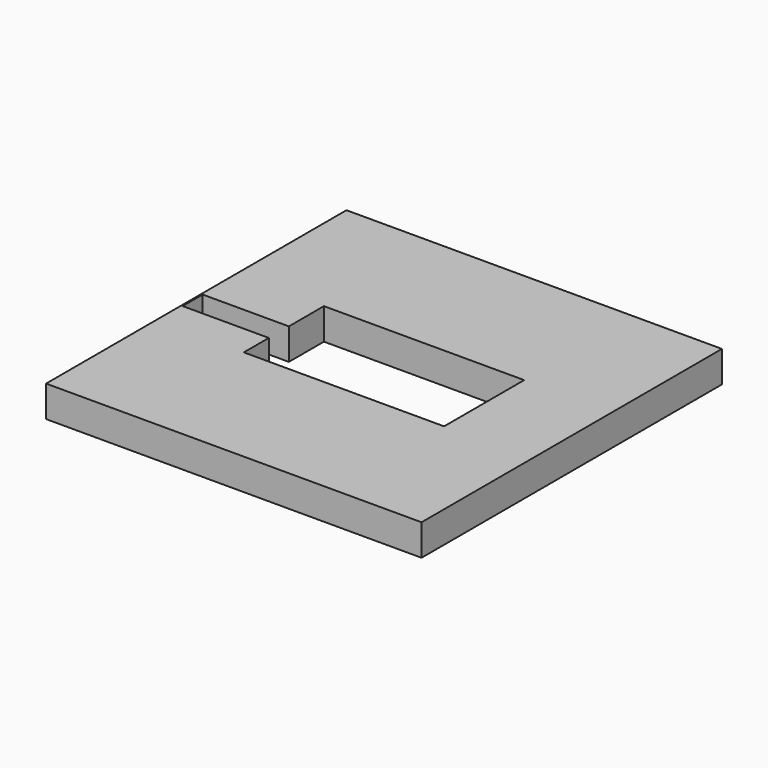
from build123d import *

# Parameters (mm, degrees)
F1_W     = 76.2
F1_H     = 76.2
F1_W_2   = 40.64
F1_H_2   = 20.32
F2_DEPTH = 6.35
F3_W     = 17.763365
F3_H     = 5.08
F4_DEPTH = 25.4


with BuildPart() as f2:
    # F1 (on face) → F2 (new body)
    with BuildSketch(Plane.XY):
        with Locations((-38.1, -38.1)):
            Rectangle(F1_W, F1_H)
        with Locations((-38.1, -38.1)):
            Rectangle(F1_W_2, F1_H_2, mode=Mode.SUBTRACT)
    extrude(amount=F2_DEPTH)

    # F3 (on face) → F4 (cut)
    with BuildSketch(Plane.XY):
        with Locations((-67.033619, -39.375661)):
            Rectangle(F3_W, F3_H)
    extrude(amount=F4_DEPTH, mode=Mode.SUBTRACT)


solid = f2.part
